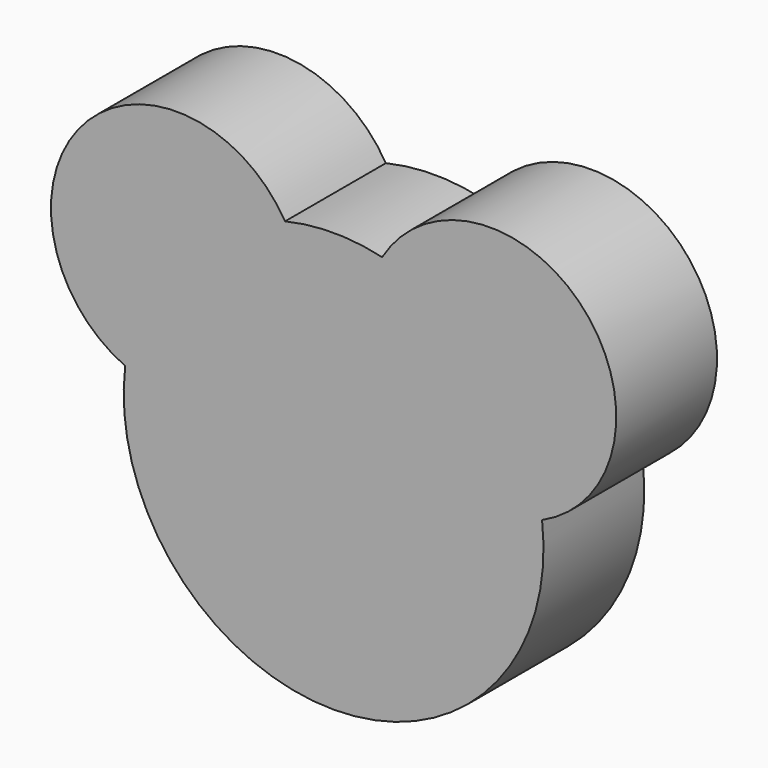
from build123d import *

# Parameters (mm, degrees)
F1_DEPTH = 15


with BuildPart() as f1:
    # F0 (on Front) → F1 (new body)
    with BuildSketch(Plane.XZ):
        with BuildLine():
            ThreePointArc((-5.780718, 24.322486), (-29.858387, 26.617226), (-24.824129, 2.960171))
            ThreePointArc((-24.824129, 2.960171), (0, -25), (24.824129, 2.960171))
            ThreePointArc((24.824129, 2.960171), (29.858387, 26.617226), (5.780718, 24.322486))
            ThreePointArc((5.780718, 24.322486), (0, 25), (-5.780718, 24.322486))
        make_face()
    extrude(amount=F1_DEPTH)


solid = f1.part
